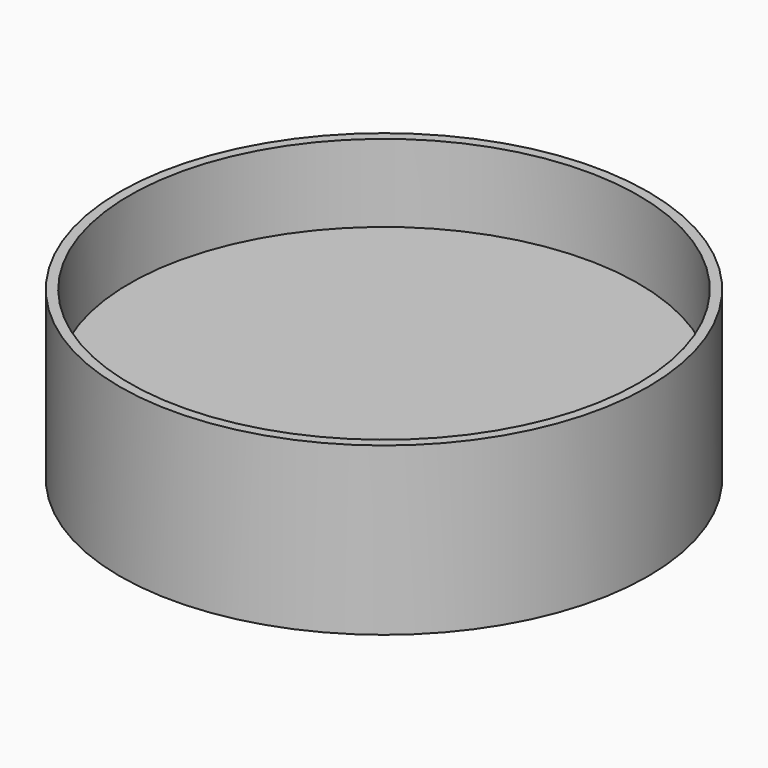
from build123d import *

# Parameters (mm, degrees)
F0_R     = 27.25
F1_DEPTH = 8.6
F2_R     = 26.25
F3_DEPTH = 8
F4_R     = 25.25
F5_DEPTH = 7


with BuildPart() as f1:
    # F0 (on Top) → F1 (new body, symmetric)
    with BuildSketch(Plane.XY):
        Circle(F0_R)
    extrude(amount=F1_DEPTH, both=True)

    # F2 (on face) → F3 (cut)
    with BuildSketch(Plane.XY.offset(8.6)):
        Circle(F2_R)
    extrude(amount=-F3_DEPTH, mode=Mode.SUBTRACT)

    # F4 (on face) → F5 (cut)
    with BuildSketch(Plane(origin=(0, 0, -8.6), x_dir=(1, 0, 0), z_dir=(0, 0, -1))):
        Circle(F4_R)
    extrude(amount=-F5_DEPTH, mode=Mode.SUBTRACT)


solid = f1.part
